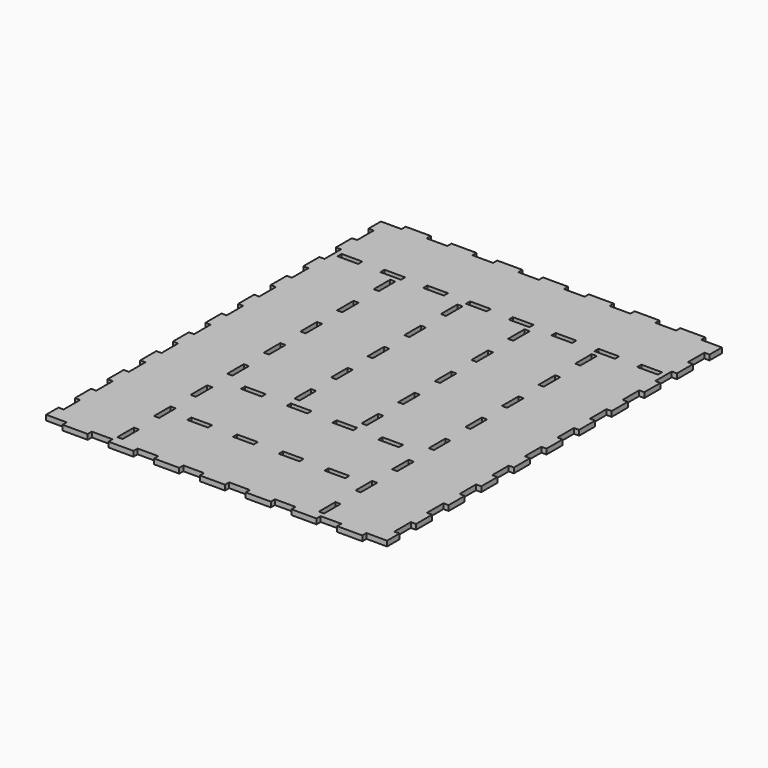
from build123d import *

# Parameters (mm, degrees)
F0_W     = 419.1
F0_H     = 527.05
F1_DEPTH = 6.35
F2_W     = 25.4
F2_H     = 6.35
F2_W_2   = 6.35
F2_H_2   = 25.4
F3_DEPTH = 6.351
F4_W     = 25.4
F4_H     = 6.35
F5_DEPTH = 6.351
F6_W     = 6.35
F6_H     = 25.4
F6_W_2   = 25.4
F6_H_2   = 6.35
F7_DEPTH = 6.351


with BuildPart() as f1:
    # F0 (on Top) → F1 (new body)
    with BuildSketch(Plane.XY):
        Rectangle(F0_W, F0_H)
    extrude(amount=F1_DEPTH)

    # F2 (on face) → F3 (cut, through all)
    with BuildSketch(Plane.XY.offset(6.35)):
        with Locations((-196.85, -260.35)):
            Rectangle(F2_W, F2_H)
        with Locations((-140.607143, -260.35)):
            Rectangle(F2_W, F2_H)
        with Locations((-84.364286, -260.35)):
            Rectangle(F2_W, F2_H)
        with Locations((-28.121429, -260.35)):
            Rectangle(F2_W, F2_H)
        with Locations((28.121429, -260.35)):
            Rectangle(F2_W, F2_H)
        with Locations((84.364286, -260.35)):
            Rectangle(F2_W, F2_H)
        with Locations((140.607143, -260.35)):
            Rectangle(F2_W, F2_H)
        with Locations((196.85, -260.35)):
            Rectangle(F2_W, F2_H)
        with Locations((140.607143, 260.35)):
            Rectangle(F2_W, F2_H)
        with Locations((28.121429, 260.35)):
            Rectangle(F2_W, F2_H)
        with Locations((196.85, 260.35)):
            Rectangle(F2_W, F2_H)
        with Locations((84.364286, 260.35)):
            Rectangle(F2_W, F2_H)
        with Locations((-140.607143, 260.35)):
            Rectangle(F2_W, F2_H)
        with Locations((-196.85, 260.35)):
            Rectangle(F2_W, F2_H)
        with Locations((-28.121429, 260.35)):
            Rectangle(F2_W, F2_H)
        with Locations((-84.364286, 260.35)):
            Rectangle(F2_W, F2_H)
        with Locations((-206.375, 225.425)):
            Rectangle(F2_W_2, F2_H_2)
        with Locations((-206.375, 175.330556)):
            Rectangle(F2_W_2, F2_H_2)
        with Locations((-206.375, 125.236111)):
            Rectangle(F2_W_2, F2_H_2)
        with Locations((-206.375, 75.141667)):
            Rectangle(F2_W_2, F2_H_2)
        with Locations((-206.375, 25.047222)):
            Rectangle(F2_W_2, F2_H_2)
        with Locations((-206.375, -25.047222)):
            Rectangle(F2_W_2, F2_H_2)
        with Locations((-206.375, -75.141667)):
            Rectangle(F2_W_2, F2_H_2)
        with Locations((-206.375, -125.236111)):
            Rectangle(F2_W_2, F2_H_2)
        with Locations((-206.375, -175.330556)):
            Rectangle(F2_W_2, F2_H_2)
        with Locations((-206.375, -225.425)):
            Rectangle(F2_W_2, F2_H_2)
        with Locations((206.375, 225.425)):
            Rectangle(F2_W_2, F2_H_2)
        with Locations((206.375, 175.330556)):
            Rectangle(F2_W_2, F2_H_2)
        with Locations((206.375, 75.141667)):
            Rectangle(F2_W_2, F2_H_2)
        with Locations((206.375, -125.236111)):
            Rectangle(F2_W_2, F2_H_2)
        with Locations((206.375, -25.047222)):
            Rectangle(F2_W_2, F2_H_2)
        with Locations((206.375, -225.425)):
            Rectangle(F2_W_2, F2_H_2)
        with Locations((206.375, 25.047222)):
            Rectangle(F2_W_2, F2_H_2)
        with Locations((206.375, 125.236111)):
            Rectangle(F2_W_2, F2_H_2)
        with Locations((206.375, -75.141667)):
            Rectangle(F2_W_2, F2_H_2)
        with Locations((206.375, -175.330556)):
            Rectangle(F2_W_2, F2_H_2)
    extrude(amount=-F3_DEPTH, mode=Mode.SUBTRACT)

    # F4 (on face) → F5 (cut, through all)
    with BuildSketch(Plane.XY.offset(6.35)):
        with Locations((-184.15, 177.8)):
            Rectangle(F4_W, F4_H)
        with Locations((-131.535714, 177.8)):
            Rectangle(F4_W, F4_H)
        with Locations((-78.921429, 177.8)):
            Rectangle(F4_W, F4_H)
        with Locations((-26.307143, 177.8)):
            Rectangle(F4_W, F4_H)
        with Locations((26.307143, 177.8)):
            Rectangle(F4_W, F4_H)
        with Locations((78.921429, 177.8)):
            Rectangle(F4_W, F4_H)
        with Locations((131.535714, 177.8)):
            Rectangle(F4_W, F4_H)
        with Locations((184.15, 177.8)):
            Rectangle(F4_W, F4_H)
    extrude(amount=-F5_DEPTH, mode=Mode.SUBTRACT)

    # F6 (on face) → F7 (cut, through all)
    with BuildSketch(Plane.XY.offset(6.35)):
        with Locations((-123.825, -238.125)):
            Rectangle(F6_W, F6_H)
        with Locations((-123.825, -181.882143)):
            Rectangle(F6_W, F6_H)
        with Locations((-123.825, -125.639286)):
            Rectangle(F6_W, F6_H)
        with Locations((-123.825, -69.396429)):
            Rectangle(F6_W, F6_H)
        with Locations((-123.825, -13.153571)):
            Rectangle(F6_W, F6_H)
        with Locations((-123.825, 43.089286)):
            Rectangle(F6_W, F6_H)
        with Locations((-123.825, 99.332143)):
            Rectangle(F6_W, F6_H)
        with Locations((-123.825, 155.575)):
            Rectangle(F6_W, F6_H)
        with Locations((123.825, -238.125)):
            Rectangle(F6_W, F6_H)
        with Locations((123.825, -125.639286)):
            Rectangle(F6_W, F6_H)
        with Locations((123.825, 43.089286)):
            Rectangle(F6_W, F6_H)
        with Locations((123.825, -13.153571)):
            Rectangle(F6_W, F6_H)
        with Locations((123.825, 99.332143)):
            Rectangle(F6_W, F6_H)
        with Locations((123.825, 155.575)):
            Rectangle(F6_W, F6_H)
        with Locations((123.825, -69.396429)):
            Rectangle(F6_W, F6_H)
        with Locations((123.825, -181.882143)):
            Rectangle(F6_W, F6_H)
        with Locations((-41.275, -13.153571)):
            Rectangle(F6_W, F6_H)
        with Locations((-41.275, -69.396429)):
            Rectangle(F6_W, F6_H)
        with Locations((-41.275, 43.089286)):
            Rectangle(F6_W, F6_H)
        with Locations((-41.275, 99.332143)):
            Rectangle(F6_W, F6_H)
        with Locations((-41.275, 155.575)):
            Rectangle(F6_W, F6_H)
        with Locations((41.275, -13.153571)):
            Rectangle(F6_W, F6_H)
        with Locations((41.275, -69.396429)):
            Rectangle(F6_W, F6_H)
        with Locations((41.275, 43.089286)):
            Rectangle(F6_W, F6_H)
        with Locations((41.275, 99.332143)):
            Rectangle(F6_W, F6_H)
        with Locations((41.275, 155.575)):
            Rectangle(F6_W, F6_H)
        with Locations((-84.364286, -177.8)):
            Rectangle(F6_W_2, F6_H_2)
        with Locations((-84.364286, -95.25)):
            Rectangle(F6_W_2, F6_H_2)
        with Locations((-28.121429, -177.8)):
            Rectangle(F6_W_2, F6_H_2)
        with Locations((-28.121429, -95.25)):
            Rectangle(F6_W_2, F6_H_2)
        with Locations((28.121429, -177.8)):
            Rectangle(F6_W_2, F6_H_2)
        with Locations((28.121429, -95.25)):
            Rectangle(F6_W_2, F6_H_2)
        with Locations((84.364286, -177.8)):
            Rectangle(F6_W_2, F6_H_2)
        with Locations((84.364286, -95.25)):
            Rectangle(F6_W_2, F6_H_2)
    extrude(amount=-F7_DEPTH, mode=Mode.SUBTRACT)


solid = f1.part
